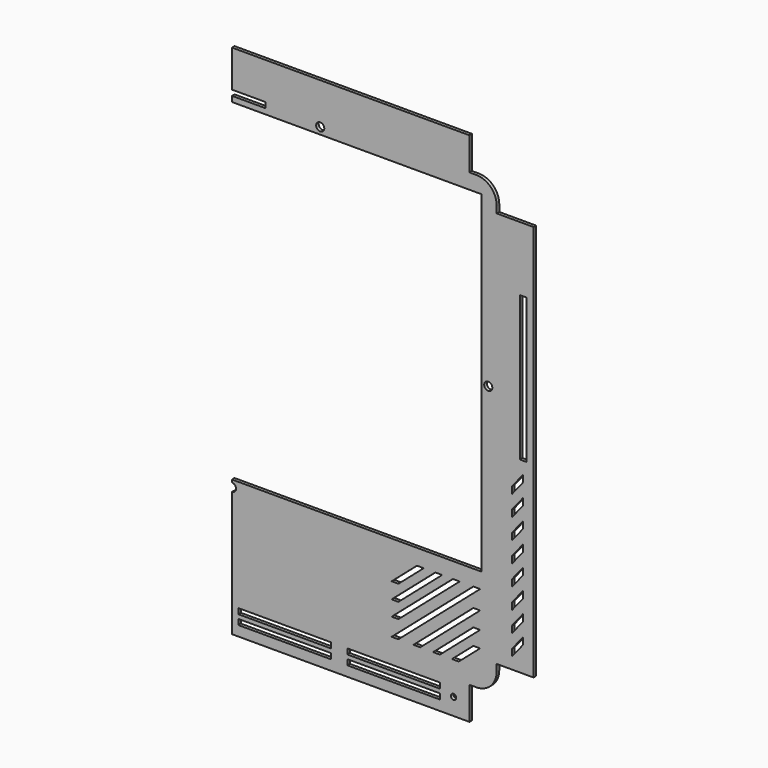
from build123d import *

# Parameters (mm, degrees)
F0_W     = 221.488
F0_H     = 30.48
F0_W_2   = 34.29
F0_H_2   = 369.824
F1_DEPTH = 3
F2_W     = 86.36
F2_H     = 5.08
F2_R     = 2.5
F2_W_2   = 273.93447
F2_H_2   = 309.88
F2_W_3   = 6.35
F2_H_3   = 135
F2_R_2   = 3.81
F2_W_4   = 40.901455
F3_DEPTH = 25.4
F5_DEPTH = 25.4


with BuildPart() as f1:
    # F0 (on Front) → F1 (new body)
    with BuildSketch(Plane.XZ):
        Polygon((222.134481, 216.029425), (0.646481, 216.029425), (0.646481, 185.549425), (203.084481, 185.549425), (222.134481, 185.549425), align=None)
        with BuildLine():
            Line((203.084481, 185.549425), (0.646481, 185.549425))
            Line((0.646481, 185.549425), (0.646481, -235.074575))
            Line((0.646481, -235.074575), (222.134481, -235.074575))
            Line((222.134481, -235.074575), (228.484481, -235.074575))
            ThreePointArc((228.484481, -235.074575), (241.954865, -229.49496), (247.534481, -216.024575))
            Line((247.534481, -216.024575), (247.534481, -209.674575))
            Line((247.534481, -209.674575), (247.534481, 160.149425))
            Line((247.534481, 160.149425), (247.534481, 166.499425))
            ThreePointArc((247.534481, 166.499425), (241.954865, 179.969809), (228.484481, 185.549425))
            Line((228.484481, 185.549425), (222.134481, 185.549425))
            Line((222.134481, 185.549425), (203.084481, 185.549425))
        make_face()
        with Locations((111.390481, -250.314575)):
            Rectangle(F0_W, F0_H)
        with Locations((264.679481, -24.762575)):
            Rectangle(F0_W_2, F0_H_2)
    extrude(amount=F1_DEPTH)

    # F2 (on Front) → F3 (cut)
    with BuildSketch(Plane.XZ):
        Polygon((272.003669, -103.610899), (261.843669, -116.310899), (261.843669, -122.660899), (272.003669, -109.960899), align=None)
        Polygon((272.003669, -122.660899), (261.843669, -135.360899), (261.843669, -141.710899), (272.003669, -129.010899), align=None)
        Polygon((261.843669, -103.610899), (272.003669, -90.910899), (272.003669, -84.560899), (261.843669, -97.260899), align=None)
        Polygon((261.843669, -78.210899), (261.843669, -84.560899), (272.003669, -71.860899), (272.003669, -65.510899), align=None)
        Polygon((261.843669, -154.410899), (261.843669, -160.760899), (272.003669, -148.060899), (272.003669, -141.710899), align=None)
        Polygon((272.003669, -46.460899), (261.843669, -59.160899), (261.843669, -65.510899), (272.003669, -52.810899), align=None)
        Polygon((272.003669, -167.110899), (272.003669, -160.760899), (261.843669, -173.460899), (261.843669, -179.810899), align=None)
        Polygon((272.003669, -186.160899), (272.003669, -179.810899), (261.843669, -192.510899), (261.843669, -198.860899), align=None)
        with Locations((49.753669, -244.707899)):
            Rectangle(F2_W, F2_H)
        with Locations((49.753669, -253.597899)):
            Rectangle(F2_W, F2_H)
        with Locations((151.353669, -253.597899)):
            Rectangle(F2_W, F2_H)
        with Locations((151.353669, -244.707899)):
            Rectangle(F2_W, F2_H)
        with Locations((207.233669, -249.787899)):
            Circle(F2_R)
        with Locations((96.343246, 16.385425)):
            Rectangle(F2_W_2, F2_H_2)
        with Locations((272.299481, 32.649425)):
            Rectangle(F2_W_3, F2_H_3)
        with Locations((82.942481, 177.675425)):
            Circle(F2_R_2)
        with Locations((11.691753, 178.945425)):
            Rectangle(F2_W_4, F2_H)
        with Locations((239.660481, 15.728911)):
            Circle(F2_R_2)
        with Locations((0.646481, -144.904575)):
            Circle(F2_R_2)
    extrude(amount=F3_DEPTH, mode=Mode.SUBTRACT)

    # F4 (on Front) → F5 (cut)
    with BuildSketch(Plane.XZ):
        Polygon((155.873724, -202.75587), (213.023724, -153.22587), (206.673724, -153.22587), (149.523724, -202.75587), align=None)
        Polygon((155.873724, -219.26587), (232.073724, -153.22587), (225.723724, -153.22587), (149.523724, -219.26587), align=None)
        Polygon((155.873724, -188.551126), (196.633635, -153.22587), (190.283635, -153.22587), (149.523724, -188.551126), align=None)
        Polygon((173.147047, -153.22587), (149.523724, -173.699416), (155.873724, -173.699416), (179.497047, -153.22587), align=None)
        Polygon((194.59876, -219.26587), (232.073724, -186.787567), (225.723724, -186.787567), (188.24876, -219.26587), align=None)
        Polygon((225.723724, -170.842871), (169.851033, -219.26587), (176.201033, -219.26587), (232.073724, -170.842871), align=None)
        Polygon((225.723724, -201.960742), (205.756269, -219.26587), (212.106269, -219.26587), (232.073724, -201.960742), align=None)
    extrude(amount=F5_DEPTH, mode=Mode.SUBTRACT)


solid = f1.part
